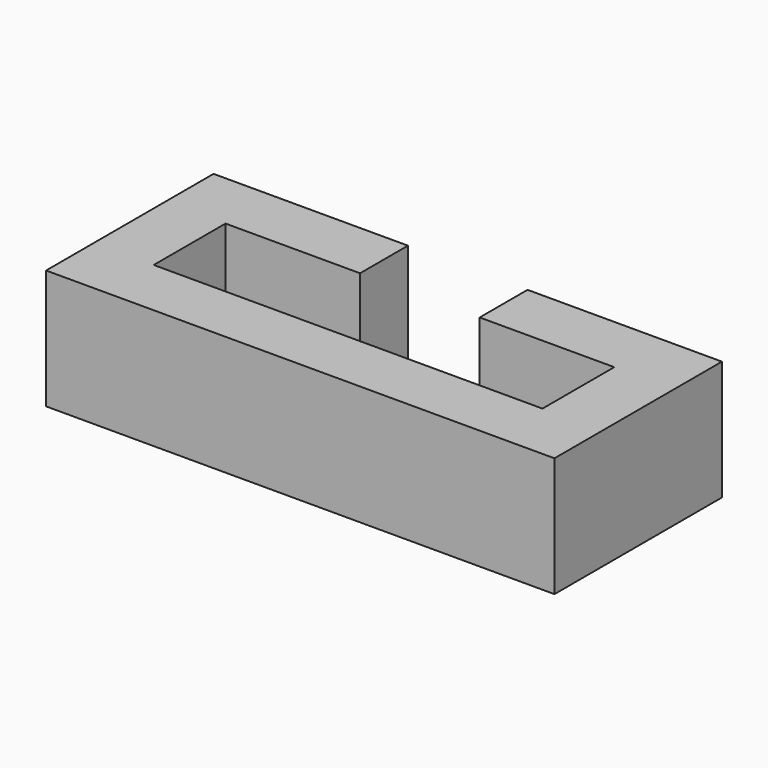
from build123d import *

# Parameters (mm, degrees)
F0_W     = 17
F0_H     = 7
F0_W_2   = 13
F0_H_2   = 3
F1_DEPTH = 4
F2_W     = 4
F2_H     = 2
F3_DEPTH = 25


with BuildPart() as f1:
    # F0 (on Top) → F1 (new body)
    with BuildSketch(Plane.XY):
        Rectangle(F0_W, F0_H)
        Rectangle(F0_W_2, F0_H_2, mode=Mode.SUBTRACT)
    extrude(amount=F1_DEPTH)

    # F2 (on face) → F3 (cut)
    with BuildSketch(Plane.XY.offset(4)):
        with Locations((0, 2.5)):
            Rectangle(F2_W, F2_H)
    extrude(amount=-F3_DEPTH, mode=Mode.SUBTRACT)


solid = f1.part
